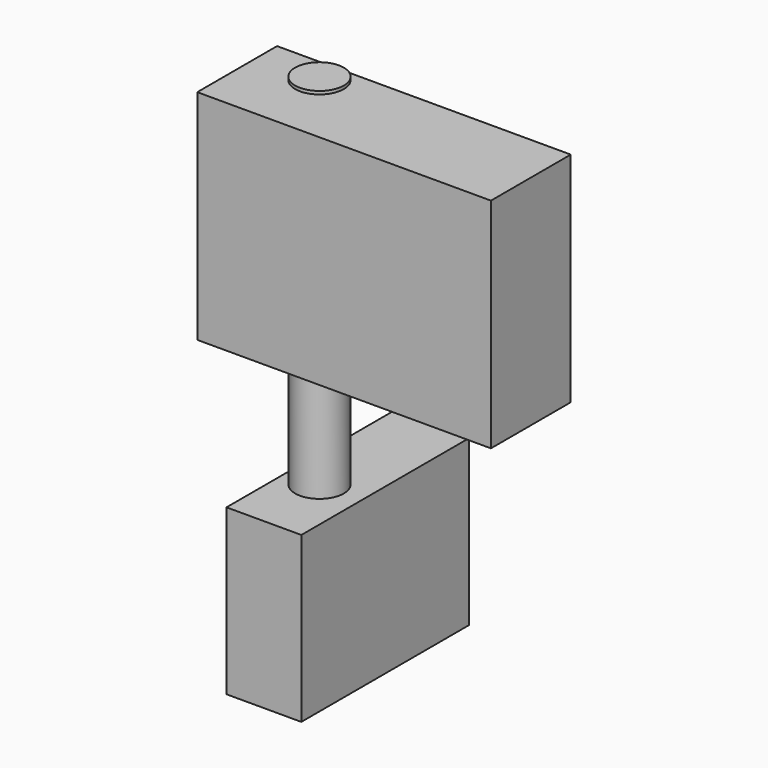
from build123d import *

# Parameters (mm, degrees)
F0_W     = 190.5
F0_H     = 533.4
F1_DEPTH = 419.1
F2_R     = 61.948807
F3_DEPTH = 914.4
F4_W     = 747.836396
F4_H     = 555.345953
F5_DEPTH = 254


with BuildPart() as f1:
    # F0 (on Top) → F1 (new body)
    with BuildSketch(Plane.XY):
        with Locations((95.25, 266.7)):
            Rectangle(F0_W, F0_H)
    extrude(amount=F1_DEPTH)

    # F2 (on face) → F3 (join)
    with BuildSketch(Plane.XY.offset(419.1)):
        with Locations((82.928531, 192.244217)):
            Circle(F2_R)
    extrude(amount=F3_DEPTH)

    # F4 (on face) → F5 (join)
    with BuildSketch(Plane.XZ):
        with Locations((299.42248, 1047.925144)):
            Rectangle(F4_W, F4_H)
    extrude(amount=-F5_DEPTH)


solid = f1.part
